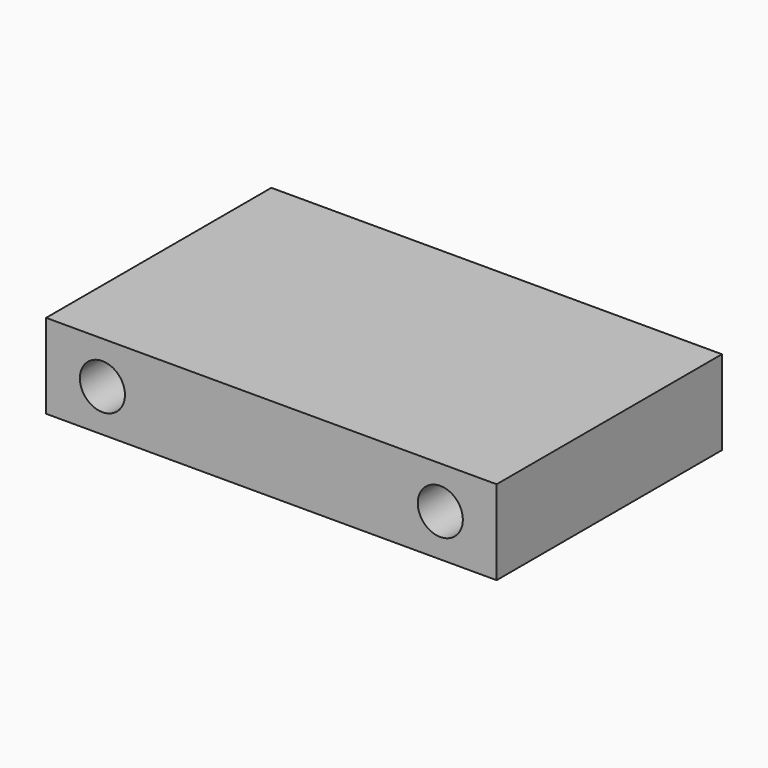
from build123d import *

# Parameters (mm, degrees)
F0_W     = 80
F0_H     = 50
F1_DEPTH = 15
F2_R     = 4
F3_DEPTH = 50


with BuildPart() as f1:
    # F0 (on Top) → F1 (new body)
    with BuildSketch(Plane.XY):
        with Locations((-5.707638, 0.697194)):
            Rectangle(F0_W, F0_H)
    extrude(amount=F1_DEPTH)

    # F2 (on face) → F3 (cut)
    with BuildSketch(Plane.XZ.offset(24.302806)):
        with Locations((-35.707638, 7.5)):
            Circle(F2_R)
        with Locations((24.292362, 7.5)):
            Circle(F2_R)
    extrude(amount=-F3_DEPTH, mode=Mode.SUBTRACT)


solid = f1.part
